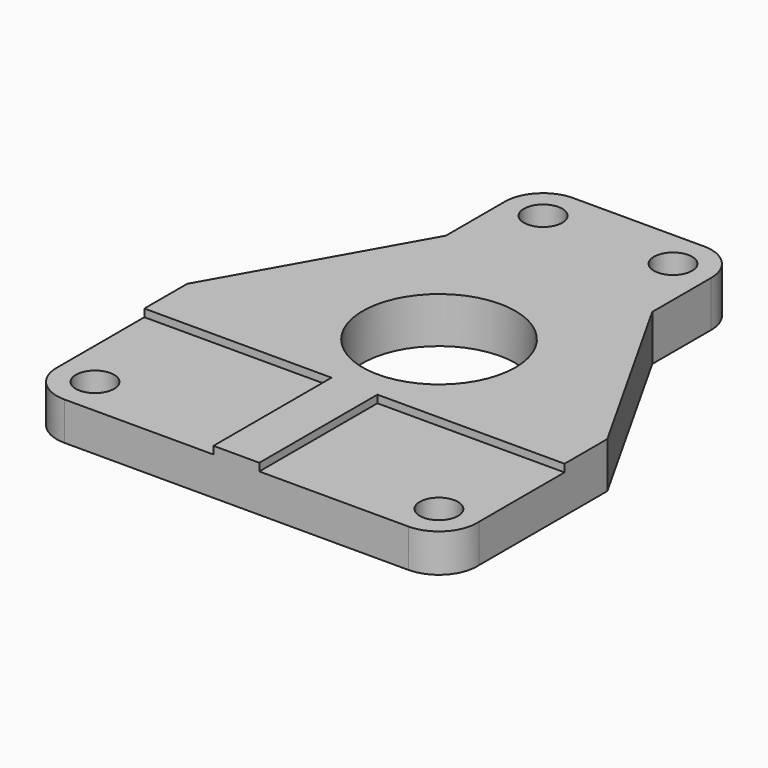
from build123d import *

# Parameters (mm, degrees)
F0_W     = 12
F0_H     = 38.624726
F0_R     = 5
F0_R_2   = 20
F1_DEPTH = 12
F2_DEPTH = 10


with BuildPart() as f1:
    # F0 (on Top) → F1 (new body)
    with BuildSketch(Plane.XY):
        with BuildLine():
            Line((-34.166393, 46.148042), (-62.137567, -3.51697))
            Line((-62.137567, -3.51697), (-41.137567, -3.51697))
            ThreePointArc((-41.137567, -3.51697), (-36.41752, -1.686221), (-34.166393, 2.848414))
            ThreePointArc((-34.166393, 2.848414), (-36.42863, 14.856326), (-34.166393, 26.864238))
            Line((-34.166393, 26.864238), (-34.166393, 46.148042))
        make_face()
        with BuildLine():
            Line((26.804781, -3.51697), (47.804781, -3.51697))
            Line((47.804781, -3.51697), (19.833607, 46.148042))
            Line((19.833607, 46.148042), (19.833607, 26.864238))
            ThreePointArc((19.833607, 26.864238), (22.095845, 14.856326), (19.833607, 2.848414))
            ThreePointArc((19.833607, 2.848414), (22.084734, -1.686221), (26.804781, -3.51697))
        make_face()
        with Locations((-7.1571, -36.829333)):
            Rectangle(F0_W, F0_H)
        with BuildLine():
            Line((-34.166393, 65.431847), (-34.166393, 54.431847))
            Line((-34.166393, 54.431847), (19.833607, 54.431847))
            Line((19.833607, 54.431847), (19.833607, 65.431847))
            ThreePointArc((19.833607, 65.431847), (16.622155, 72.774572), (9.050482, 75.401135))
            Line((9.050482, 75.401135), (-24.949518, 75.401135))
            ThreePointArc((-24.949518, 75.401135), (-31.509119, 72.220394), (-34.166393, 65.431847))
        make_face()
        with Locations((-24.166393, 65.431847)):
            Circle(F0_R, mode=Mode.SUBTRACT)
        with Locations((9.833607, 65.431847)):
            Circle(F0_R, mode=Mode.SUBTRACT)
        with BuildLine():
            Line((-62.137567, -17.51697), (-13.1571, -17.51697))
            Line((-13.1571, -17.51697), (-1.1571, -17.51697))
            Line((-1.1571, -17.51697), (47.804781, -17.51697))
            Line((47.804781, -17.51697), (47.804781, -3.51697))
            Line((47.804781, -3.51697), (26.804781, -3.51697))
            ThreePointArc((26.804781, -3.51697), (22.084734, -1.686221), (19.833607, 2.848414))
            ThreePointArc((19.833607, 2.848414), (22.095845, 14.856326), (19.833607, 26.864238))
            Line((19.833607, 26.864238), (19.833607, 46.148042))
            Line((19.833607, 46.148042), (19.833607, 54.431847))
            Line((19.833607, 54.431847), (-34.166393, 54.431847))
            Line((-34.166393, 54.431847), (-34.166393, 46.148042))
            Line((-34.166393, 46.148042), (-34.166393, 26.864238))
            ThreePointArc((-34.166393, 26.864238), (-36.42863, 14.856326), (-34.166393, 2.848414))
            ThreePointArc((-34.166393, 2.848414), (-36.41752, -1.686221), (-41.137567, -3.51697))
            Line((-41.137567, -3.51697), (-62.137567, -3.51697))
            Line((-62.137567, -3.51697), (-62.137567, -17.51697))
        make_face()
        with Locations((-6.625647, 9.48303)):
            Circle(F0_R_2, mode=Mode.SUBTRACT)
    extrude(amount=F1_DEPTH)

    # F0 (on Top) → F2 (join)
    with BuildSketch(Plane.XY):
        with BuildLine():
            ThreePointArc((-62.137567, -45.51697), (-59.445696, -52.988328), (-52.1571, -56.141696))
            Line((-52.1571, -56.141696), (-13.1571, -56.141696))
            Line((-13.1571, -56.141696), (-13.1571, -17.51697))
            Line((-13.1571, -17.51697), (-62.137567, -17.51697))
            Line((-62.137567, -17.51697), (-62.137567, -45.51697))
        make_face()
        with Locations((-52.1571, -46.141696)):
            Circle(F0_R, mode=Mode.SUBTRACT)
        with BuildLine():
            Line((-1.1571, -17.51697), (-1.1571, -56.141696))
            Line((-1.1571, -56.141696), (37.8429, -56.141696))
            ThreePointArc((37.8429, -56.141696), (45.125137, -52.987058), (47.804781, -45.51697))
            Line((47.804781, -45.51697), (47.804781, -17.51697))
            Line((47.804781, -17.51697), (-1.1571, -17.51697))
        make_face()
        with Locations((37.8429, -46.159139)):
            Circle(F0_R, mode=Mode.SUBTRACT)
    extrude(amount=F2_DEPTH)


solid = f1.part
